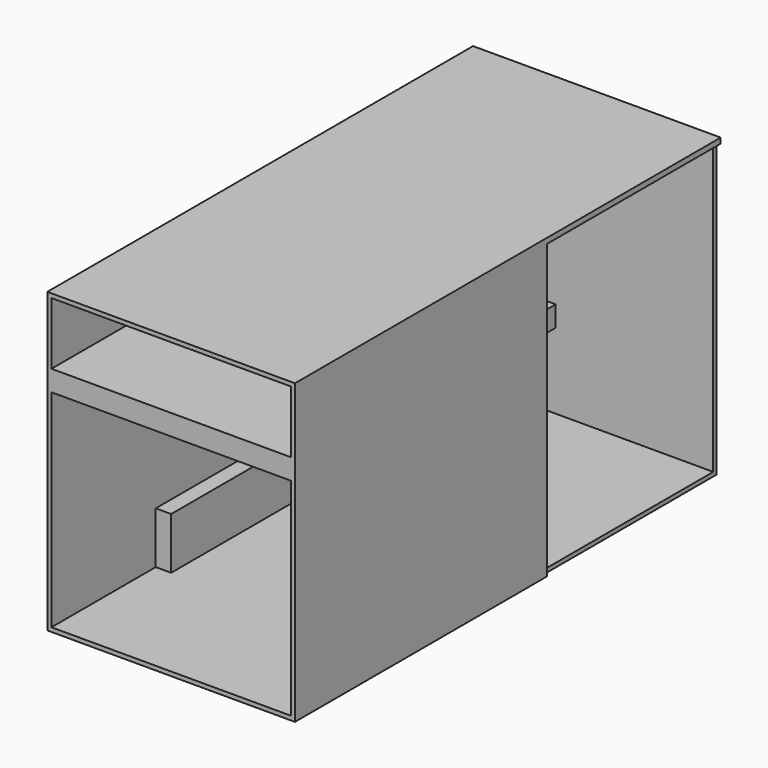
from build123d import *

# Parameters (mm, degrees)
F1_DEPTH = 3266.44
F2_T     = -25.4
F3_W     = 94.6
F3_H     = 919.48
F4_DEPTH = 317.5
F5_W     = 2032
F5_H     = 127
F6_DEPTH = 1469.2
F7_W     = 1331.0638666153
F7_H     = 1797.0106387138
F8_DEPTH = 25.4


with BuildPart() as f1:
    # F0 (on Front) → F1 (new body)
    with BuildSketch(Plane.XZ):
        Polygon((760, 915), (-760, 915), (760, -915), align=None)
        Polygon((760, -915), (-760, 915), (-760, -915), align=None)
    extrude(amount=F1_DEPTH)

    # F2
    f2_openings = [f1.faces().sort_by_distance(p)[0] for p in [
        (0, -3266.44, 0),
    ]]
    offset(amount=F2_T, openings=f2_openings)

    # F3 (on face) → F4 (join)
    with BuildSketch(Plane.XY.offset(-889.6)):
        with Locations((-687.3, -2006.7)):
            Rectangle(F3_W, F3_H)
        with Locations((687.3, -2006.7)):
            Rectangle(F3_W, F3_H)
    extrude(amount=F4_DEPTH)

    # F5 (on face) → F6 (join, through all)
    with BuildSketch(Plane.YZ.offset(-734.6)):
        with Locations((-2250.44, 443.9)):
            Rectangle(F5_W, F5_H)
    extrude(amount=F6_DEPTH)

    # F7 (on face) → F8 (cut, through all)
    with BuildSketch(Plane.YZ.offset(760)):
        with Locations((-665.5319333076, -16.4946806431)):
            Rectangle(F7_W, F7_H)
    extrude(amount=-F8_DEPTH, mode=Mode.SUBTRACT)


solid = f1.part
